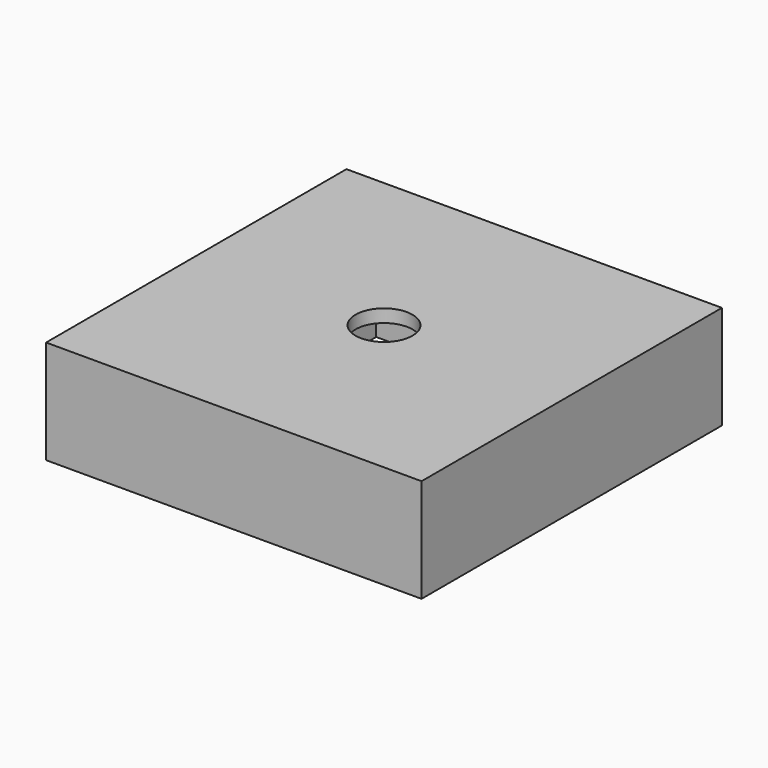
from build123d import *

# Parameters (mm, degrees)
SKETCH002_W     = 29
SKETCH002_H     = 29
PAD001_DEPTH    = 8
SKETCH003_W     = 26
SKETCH003_H     = 26
POCKET001_DEPTH = 5
SKETCH004_W     = 6
SKETCH004_H     = 6
POCKET002_DEPTH = 2
SKETCH005_R     = 2.2
POCKET003_DEPTH = 5


with BuildPart() as part:
    # Sketch002 → Pad001 (new body)
    with BuildSketch(Plane.XY):
        with Locations((-27.851261, 83.870864)):
            Rectangle(SKETCH002_W, SKETCH002_H)
    extrude(amount=PAD001_DEPTH)

    # Sketch003 (on Face5 of Pad001) → Pocket001 (cut)
    with BuildSketch(Plane(origin=(0, 0, 0), x_dir=(1, 0, 0), z_dir=(0, 0, -1))):
        with Locations((-27.851261, -83.870864)):
            Rectangle(SKETCH003_W, SKETCH003_H)
    extrude(amount=-POCKET001_DEPTH, mode=Mode.SUBTRACT)

    # Sketch004 (on Face11 of Pocket001) → Pocket002 (cut)
    with BuildSketch(Plane(origin=(0, 0, 5), x_dir=(1, 0, 0), z_dir=(0, 0, -1))):
        with Locations((-27.851261, -83.870864)):
            Rectangle(SKETCH004_W, SKETCH004_H)
    extrude(amount=-POCKET002_DEPTH, mode=Mode.SUBTRACT)

    # Sketch005 (on Face16 of Pocket002) → Pocket003 (cut)
    with BuildSketch(Plane(origin=(0, 0, 7), x_dir=(1, 0, 0), z_dir=(0, 0, -1))):
        with Locations((-27.851261, -83.870864)):
            Circle(SKETCH005_R)
    extrude(amount=-POCKET003_DEPTH, mode=Mode.SUBTRACT)


solid = part.part
